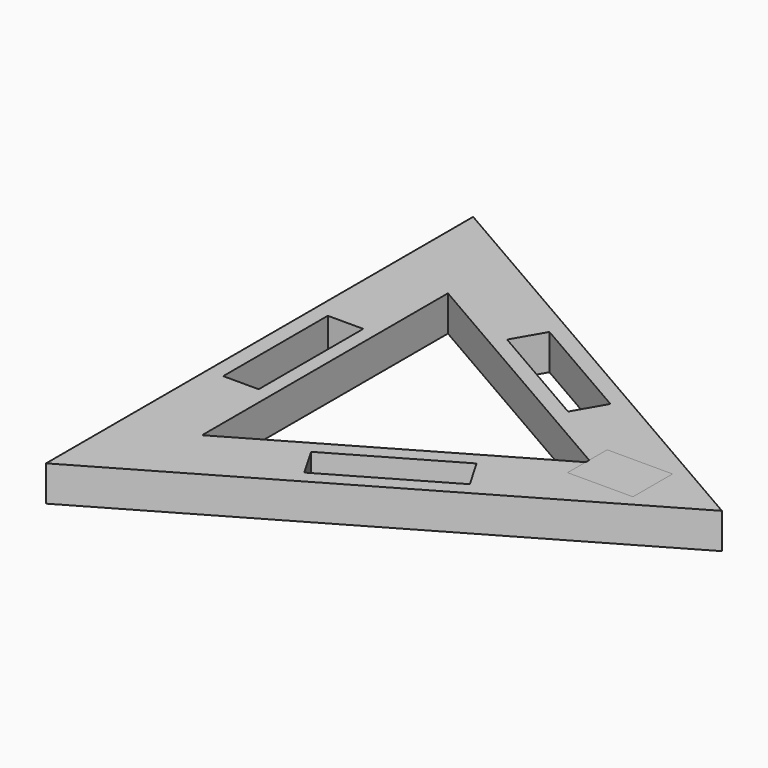
from build123d import *

# Parameters (mm, degrees)
BOX002_W               = 70
BOX002_H               = 19
BOX002_DEPTH           = 19
BOX002_PLACEMENT_ANGLE = 30
BOX001_W               = 70
BOX001_H               = 19
BOX001_DEPTH           = 19
BOX001_PLACEMENT_ANGLE = 90
BOX_W                  = 70
BOX_H                  = 19
BOX_DEPTH              = 19
BOX_PLACEMENT_ANGLE    = 30
PRISM001_DEPTH         = 19
PRISM_DEPTH            = 19
BOX003_W               = 35
BOX003_H               = 26.5
BOX003_DEPTH           = 10


with BuildPart() as box002:
    # Box002 → Box002 (new body)
    with BuildSketch(Plane.XY):
        with Locations((35, 9.5)):
            Rectangle(BOX002_W, BOX002_H)
    extrude(amount=BOX002_DEPTH)


with BuildPart() as box002_1:
    # Box002 placement: moved
    add(box002.part.moved(Location((7, -82, 0))).rotate(Axis((7, -82, 0), (0, 0, 1)), BOX002_PLACEMENT_ANGLE))


with BuildPart() as box001:
    # Box001 → Box001 (new body)
    with BuildSketch(Plane.XY):
        with Locations((35, 9.5)):
            Rectangle(BOX001_W, BOX001_H)
    extrude(amount=BOX001_DEPTH)


with BuildPart() as box001_1:
    # Box001 placement: moved
    add(box001.part.moved(Location((-55, -35, 0))).rotate(Axis((-55, -35, 0), (0, 0, 1)), BOX001_PLACEMENT_ANGLE))


with BuildPart() as box:
    # Box → Box (new body)
    with BuildSketch(Plane.XY):
        with Locations((35, 9.5)):
            Rectangle(BOX_W, BOX_H)
    extrude(amount=BOX_DEPTH)


with BuildPart() as box_1:
    # Box placement: moved
    add(box.part.moved(Location((-2, 65, 0))).rotate(Axis((-2, 65, 0), (0, 0, -1)), BOX_PLACEMENT_ANGLE))


with BuildPart() as prism001:
    # Prism001 → Prism001 (new body)
    with BuildSketch(Plane.XY):
        Polygon((95, 0), (-47.5, 82.272413), (-47.5, -82.272413), align=None)
    extrude(amount=PRISM001_DEPTH)


with BuildPart() as cut003:
    # Prism → Prism (new body)
    with BuildSketch(Plane.XY):
        Polygon((165, 0), (-82.5, 142.894192), (-82.5, -142.894192), align=None)
    extrude(amount=PRISM_DEPTH)

    # Cut: cut Prism001
    add(prism001.part, mode=Mode.SUBTRACT)

    # Cut001: cut Box
    add(box_1.part, mode=Mode.SUBTRACT)

    # Cut002: cut Box001
    add(box001_1.part, mode=Mode.SUBTRACT)

    # Cut003: cut Box002
    add(box002_1.part, mode=Mode.SUBTRACT)


with BuildPart() as box003:
    # Box003 → Box003 (new body)
    with BuildSketch(Plane(origin=(93, -13.3, 9), x_dir=(1, 0, 0), z_dir=(0, 0, 1))):
        with Locations((17.5, 13.25)):
            Rectangle(BOX003_W, BOX003_H)
    extrude(amount=BOX003_DEPTH)


solid = Compound([cut003.part, box003.part])
